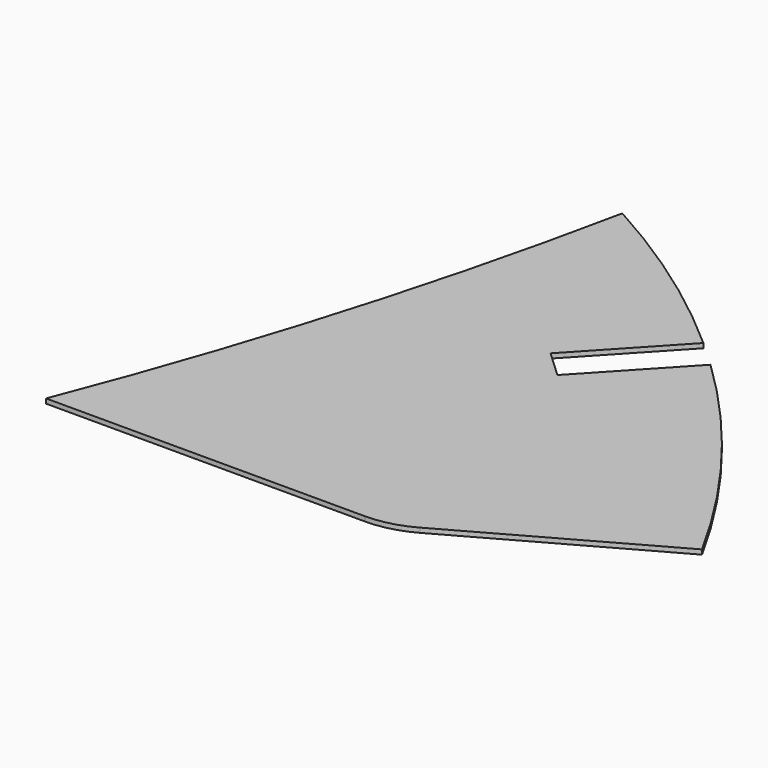
from build123d import *

# Parameters (mm, degrees)
F1_DEPTH = 0.5
F2_R     = 10


with BuildPart() as f1:
    # F0 (on Top) → F1 (new body)
    with BuildSketch(Plane.XY):
        with BuildLine():
            Line((0, 0), (37, 0))
            Line((37, 0), (60.3, 13))
            ThreePointArc((60.3, 13), (51.093684, 27.156135), (39.829104, 39.736344))
            Line((39.829104, 39.736344), (30.943186, 30.217226))
            Line((30.943186, 30.217226), (28.01918, 32.94673))
            Line((28.01918, 32.94673), (36.890069, 42.449747))
            ThreePointArc((36.890069, 42.449747), (27.243238, 50.112753), (16.8, 56.648944))
            ThreePointArc((16.8, 56.648944), (9.600072, 27.968575), (0, 0))
        make_face()
    extrude(amount=F1_DEPTH)

    # F2
    f2_edges = [f1.edges().sort_by_distance(p)[0] for p in [
        (37, 0, 0.25),
    ]]
    fillet(f2_edges, radius=F2_R)


solid = f1.part
